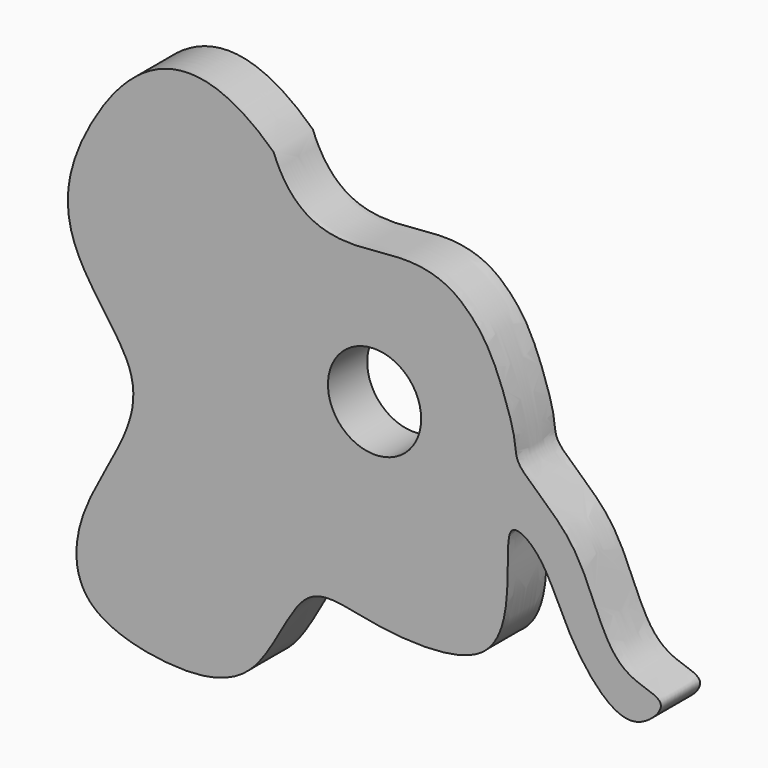
from build123d import *

# Parameters (mm, degrees)
SKETCH_R  = 9.492943
PAD_DEPTH = 10


with BuildPart() as part:
    # Sketch → Pad (new body)
    with BuildSketch(Plane.XZ):
        with BuildLine():
            add(Edge.make_bspline(
                [(-24.458546, 107.907265), (-43.3424, 125.712044), (-67.7617, 97.6839), (-67.082115, 75.804695), (-49.816879, 59.078991), (-56.021572, 43.702133), (-65.193726, 29.134588), (-65.086624, 13.666623), (-46.964291, 8.065175), (-27.194471, 9.712664), (-18.957033, 34.754429), (-5.443757, 29.065773), (22.325182, 28.260878), (23.532532, 49.188217), (22.948248, 58.178814), (30.463591, 53.572639), (35.190987, 41.329899), (42.22147, 31.632685), (49.494381, 27.875013), (57.009716, 35.269138), (49.251942, 36.481293), (44.160908, 40.360176), (40.282017, 49.693752), (36.008453, 59.249432), (24.1585, 68.1908), (25.544792, 70.920441), (21.117844, 84.201248), (16.288454, 92.250221), (4.61745, 100.299202), (-18.793402, 93.339706), (-24.458546, 107.907265)],
                knots=[0, 0, 0, 0, 0.035714, 0.071429, 0.107143, 0.142857, 0.178571, 0.214286, 0.25, 0.285714, 0.321429, 0.357143, 0.392857, 0.428571, 0.464286, 0.5, 0.535714, 0.571429, 0.607143, 0.642857, 0.678571, 0.714286, 0.75, 0.785714, 0.821429, 0.857143, 0.892857, 0.928571, 0.964286, 1, 1, 1, 1], degree=3))
        make_face()
        with Locations((-3.874756, 69.7911)):
            Circle(SKETCH_R, mode=Mode.SUBTRACT)
    extrude(amount=PAD_DEPTH)


solid = part.part
